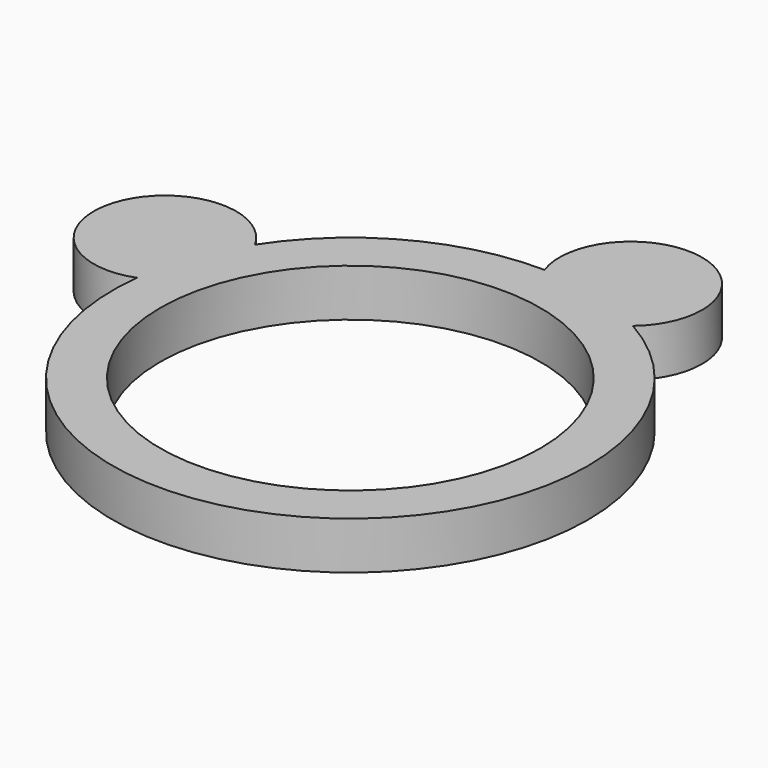
from build123d import *

# Parameters (mm, degrees)
CYLINDER003_R     = 1.5
CYLINDER003_DEPTH = 1
CYLINDER001_R     = 4
CYLINDER001_DEPTH = 10
CYLINDER_R        = 5
CYLINDER_DEPTH    = 1
CYLINDER002_R     = 1.5
CYLINDER002_DEPTH = 1


with BuildPart() as cylinder003:
    # Cylinder003 → Cylinder003 (new body)
    with BuildSketch(Plane(origin=(1.5, 5.5, 0), x_dir=(1, 0, 0), z_dir=(0, 0, 1))):
        Circle(CYLINDER003_R)
    extrude(amount=CYLINDER003_DEPTH)


with BuildPart() as cylinder001:
    # Cylinder001 → Cylinder001 (new body)
    with BuildSketch(Plane.XY.offset(-5)):
        Circle(CYLINDER001_R)
    extrude(amount=CYLINDER001_DEPTH)


with BuildPart() as cut:
    # Cylinder → Cylinder (new body)
    with BuildSketch(Plane.XY):
        Circle(CYLINDER_R)
    extrude(amount=CYLINDER_DEPTH)

    # Cut: cut Cylinder001
    add(cylinder001.part, mode=Mode.SUBTRACT)


with BuildPart() as fusion:
    # Cylinder002 → Cylinder002 (new body)
    with BuildSketch(Plane(origin=(-5.5, 2, 0), x_dir=(1, 0, 0), z_dir=(0, 0, 1))):
        Circle(CYLINDER002_R)
    extrude(amount=CYLINDER002_DEPTH)

    # Fusion: union Cylinder003, Cut
    add(cylinder003.part)
    add(cut.part)


solid = fusion.part
